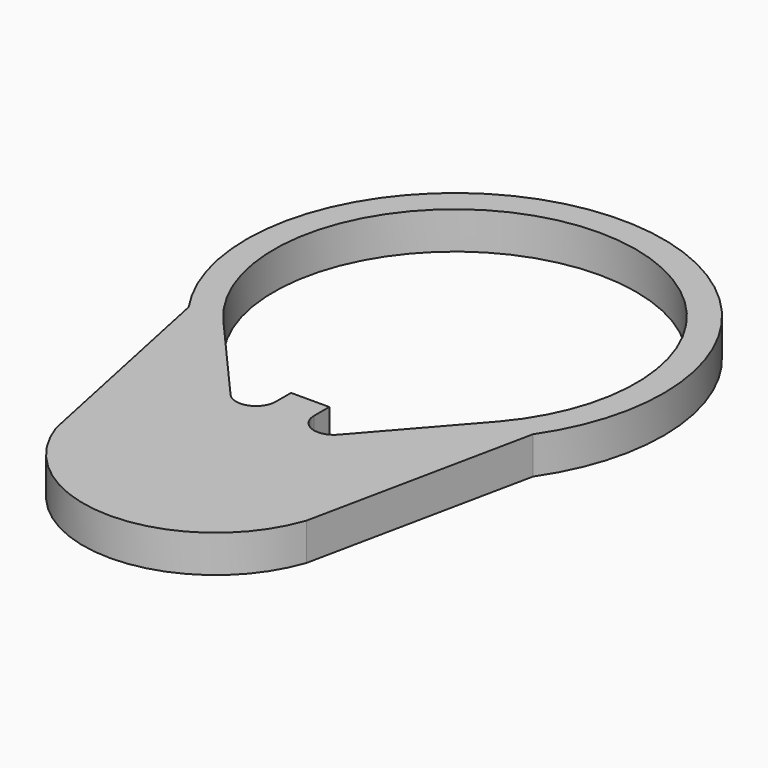
from build123d import *

# Parameters (mm, degrees)
F1_DEPTH = 3.0988
F0_W     = 3.175
F0_H     = 1.778
F2_DEPTH = 3.0988
F3_R     = 1.651


with BuildPart() as f1:
    # F0 (on Top) → F1 (new body)
    with BuildSketch(Plane.XY):
        with BuildLine():
            ThreePointArc((14.306537, -9.789921), (0, 17.3355), (-14.306537, -9.789921))
            Line((-14.306537, -9.789921), (-10.414, -28.437995))
            ThreePointArc((-10.414, -28.437995), (0, -35.8775), (10.414, -28.437995))
            Line((10.414, -28.437995), (14.306537, -9.789921))
        make_face()
        with BuildLine():
            Line((1.5875, -16.8275), (-1.5875, -16.8275))
            Line((-1.5875, -16.8275), (-1.5875, -21.0185))
            Line((-1.5875, -21.0185), (-11.43, -9.789921))
            ThreePointArc((-11.43, -9.789921), (0, 15.0495), (11.43, -9.789921))
            Line((11.43, -9.789921), (1.5875, -21.0185))
            Line((1.5875, -21.0185), (1.5875, -16.8275))
        make_face(mode=Mode.SUBTRACT)
    extrude(amount=F1_DEPTH)

    # F0 (on Top) → F2 (join)
    with BuildSketch(Plane.XY):
        with Locations((0, -15.9385)):
            Rectangle(F0_W, F0_H)
    extrude(amount=F2_DEPTH)

    # F3
    f3_edges = [f1.edges().sort_by_distance(p)[0] for p in [
        (-1.5875, -21.0185, 1.5494),
        (1.5875, -21.0185, 1.5494),
    ]]
    fillet(f3_edges, radius=F3_R)


solid = f1.part
